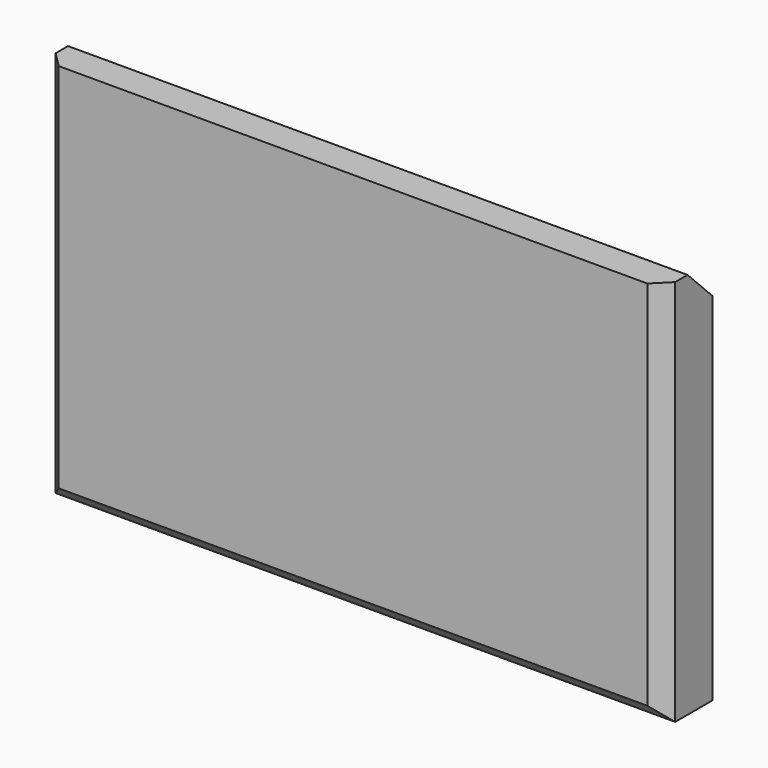
from build123d import *

# Parameters (mm, degrees)
F0_W     = 40
F0_H     = 25
F1_DEPTH = 4
F2_SIZE  = 1
F3_SIZE  = 2


with BuildPart() as f1:
    # F0 (on Front) → F1 (new body)
    with BuildSketch(Plane.XZ):
        with Locations((20, 12.5)):
            Rectangle(F0_W, F0_H)
    extrude(amount=F1_DEPTH)

    # F2
    f2_edges = [f1.edges().sort_by_distance(p)[0] for p in [
        (0, -4, 12.5),
        (20, -4, 0),
        (40, -4, 12.5),
    ]]
    chamfer(f2_edges, length=F2_SIZE)

    # F3
    f3_edges = [f1.edges().sort_by_distance(p)[0] for p in [
        (20, 0, 25),
    ]]
    chamfer(f3_edges, length=F3_SIZE)


solid = f1.part
